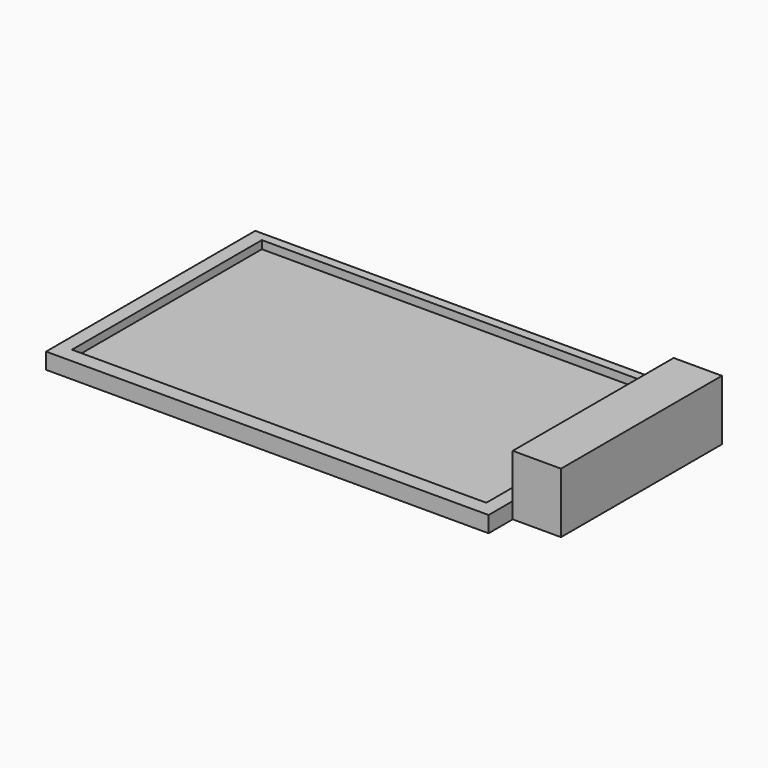
from build123d import *

# Parameters (mm, degrees)
F0_W     = 12
F0_H     = 50
F1_DEPTH = 4
F2_W     = 103
F2_H     = 59
F3_DEPTH = 8
F4_DEPTH = 15
F5_DEPTH = 2


with BuildPart() as f1:
    # F0 (on Top) → F1 (new body)
    with BuildSketch(Plane.XY):
        Polygon((-39.061178, 17.013159), (-57.475254, 17.013159), (-57.475254, -47.986841), (52.524746, -47.986841), (52.524746, -40.486841), (52.524746, 9.513159), (52.524746, 17.013159), (10.938822, 17.013159), align=None)
        with Locations((58.524746, -15.486841)):
            Rectangle(F0_W, F0_H)
    extrude(amount=F1_DEPTH)

    # F2 (on face) → F3 (cut)
    with BuildSketch(Plane.XY.offset(4)):
        with Locations((-2.536587, -14.736841)):
            Rectangle(F2_W, F2_H)
    extrude(amount=-F3_DEPTH, mode=Mode.SUBTRACT)

    # F0 (on Top) → F4 (join)
    with BuildSketch(Plane.XY):
        with Locations((58.524746, -15.486841)):
            Rectangle(F0_W, F0_H)
    extrude(amount=F4_DEPTH)

    # F0 (on Top) → F5 (join)
    with BuildSketch(Plane.XY):
        Polygon((-39.061178, 17.013159), (-57.475254, 17.013159), (-57.475254, -47.986841), (52.524746, -47.986841), (52.524746, -40.486841), (52.524746, 9.513159), (52.524746, 17.013159), (10.938822, 17.013159), align=None)
    extrude(amount=F5_DEPTH)


solid = f1.part
